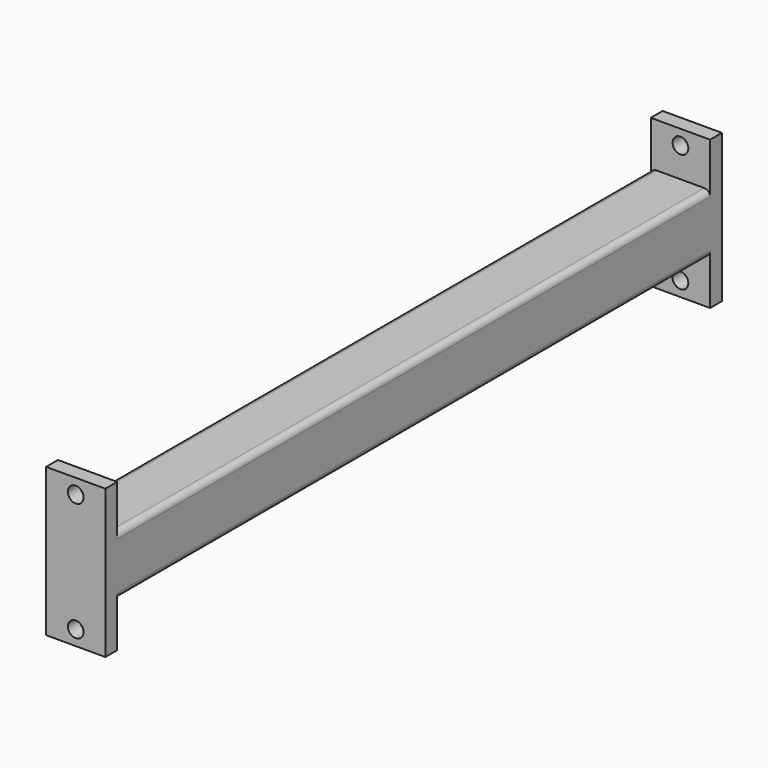
from build123d import *

# Parameters (mm, degrees)
F0_W     = 50.8
F0_H     = 50.8
F1_DEPTH = 317.5
F2_W     = 50.8
F2_H     = 38.1
F2_H_2   = 50.8
F3_DEPTH = 12.7
F4_R     = 5.08
F5_D     = 13.49248


with BuildPart() as f1:
    # F0 (on Front) → F1 (new body, symmetric)
    with BuildSketch(Plane.XZ):
        Rectangle(F0_W, F0_H)
    extrude(amount=F1_DEPTH, both=True)

    # F2 (on face) → F3 (join)
    with BuildSketch(Plane.XZ.offset(317.5)):
        with Locations((0, 44.45)):
            Rectangle(F2_W, F2_H)
        Rectangle(F2_W, F2_H_2)
        with Locations((0, -44.45)):
            Rectangle(F2_W, F2_H)
    extrude(amount=F3_DEPTH)

    # F4
    f4_edges = [f1.edges().sort_by_distance(p)[0] for p in [
        (25.4, 0, 25.4),
        (-25.4, 0, 25.4),
        (-25.4, 0, -25.4),
        (25.4, 0, -25.4),
    ]]
    fillet(f4_edges, radius=F4_R)

    # F5 (through all)
    with Locations(Plane(origin=(0, -317.5, 0), x_dir=(1, 0, 0), z_dir=(0, 1, 0))):
        with Locations((0, -50.8), (0, 50.8)):
            Hole(F5_D / 2)

    # F6: F1 across plane


with BuildPart() as f1_1:
    add(f1.part)
    add(f1.part.mirror(Plane.XZ))


solid = f1_1.part
